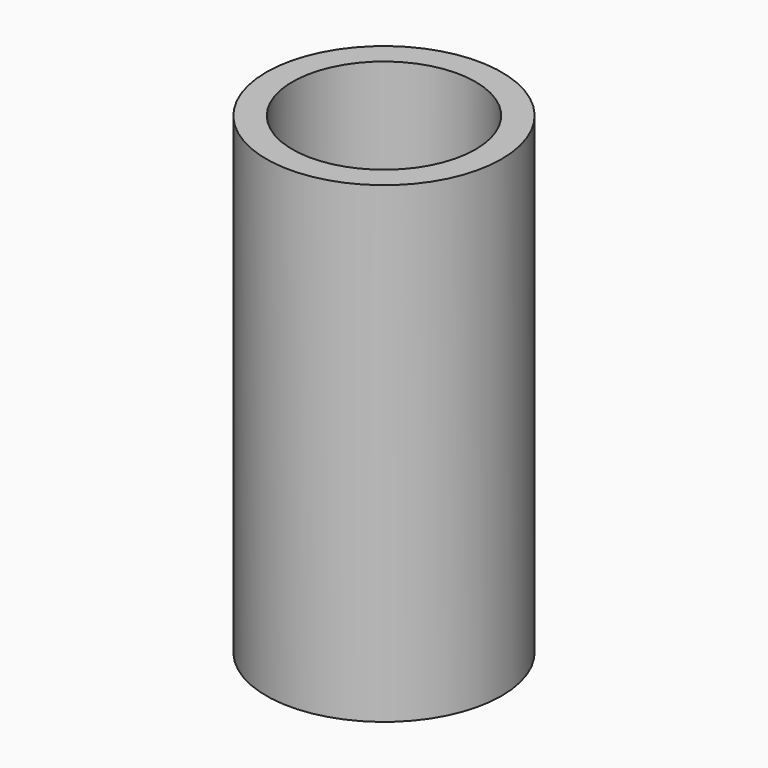
from build123d import *

# Parameters (mm, degrees)
SKETCH_R   = 4.98
SKETCH_R_2 = 3.875
PAD_DEPTH  = 20


with BuildPart() as part:
    # Sketch → Pad (new body)
    with BuildSketch(Plane.XY):
        Circle(SKETCH_R)
        Circle(SKETCH_R_2, mode=Mode.SUBTRACT)
    extrude(amount=PAD_DEPTH)


solid = part.part
